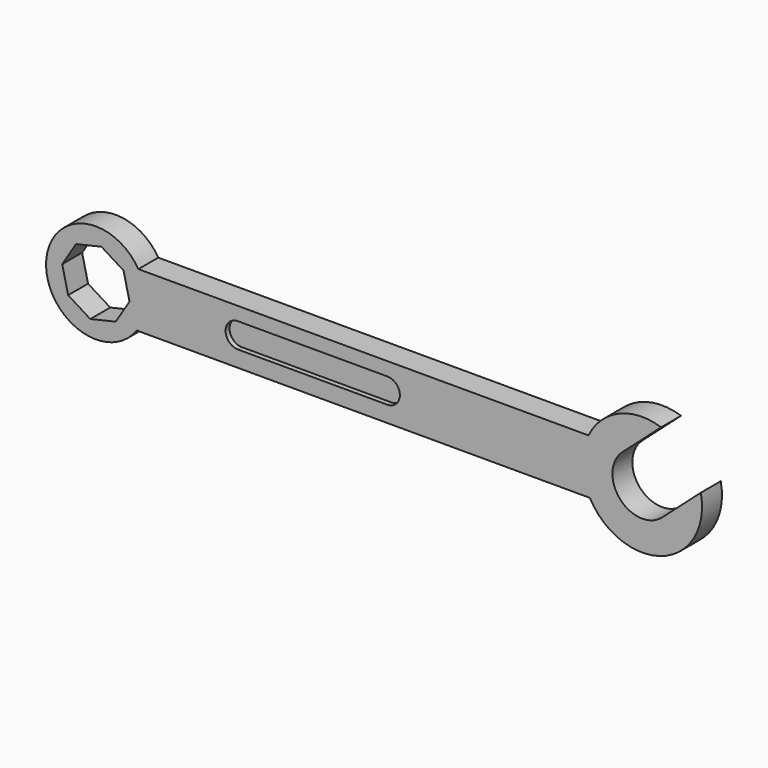
from build123d import *

# Parameters (mm, degrees)
F1_DEPTH = 3.175
F2_DEPTH = 1.905


with BuildPart() as f1:
    # F0 (on Front) → F1 (new body, symmetric)
    with BuildSketch(Plane.XZ):
        with BuildLine():
            ThreePointArc((-44.914296, -7.30021), (-43.197151, -3.828159), (-42.606453, 0))
            ThreePointArc((-42.606453, 0), (-43.079841, 3.435106), (-44.464713, 6.614127))
            ThreePointArc((-44.464713, 6.614127), (-67.999829, 0.410132), (-44.914296, -7.30021))
        make_face()
        Polygon((-48.240888, 5.064797), (-46.728991, -1.414757), (-50.241656, -7.065566), (-56.72121, -8.577462), (-62.372019, -5.064797), (-63.883915, 1.414757), (-60.37125, 7.065566), (-53.891696, 8.577462), align=None, mode=Mode.SUBTRACT)
        with BuildLine():
            ThreePointArc((-44.464713, 6.614127), (-43.079841, 3.435106), (-42.606453, 0))
            ThreePointArc((-42.606453, 0), (-43.197151, -3.828159), (-44.914296, -7.30021))
            Line((-44.914296, -7.30021), (70.688047, -7.30021))
            ThreePointArc((70.688047, -7.30021), (68.830689, -0.385594), (70.335882, 6.614127))
            Line((70.335882, 6.614127), (-44.464713, 6.614127))
        make_face()
        with BuildLine():
            ThreePointArc((-19.05, -3.175), (-22.225, 0), (-19.05, 3.175))
            Line((-19.05, 3.175), (19.05, 3.175))
            ThreePointArc((19.05, 3.175), (22.225, 0), (19.05, -3.175))
            Line((19.05, -3.175), (-19.05, -3.175))
        make_face(mode=Mode.SUBTRACT)
        with BuildLine():
            ThreePointArc((88.867829, 14.463686), (78.12184, 14.033062), (70.335882, 6.614127))
            ThreePointArc((70.335882, 6.614127), (68.830689, -0.385594), (70.688047, -7.30021))
            ThreePointArc((70.688047, -7.30021), (89.31002, -14.309293), (98.992739, 3.073172))
            Line((98.992739, 3.073172), (94.823522, -0.632802))
            Line((94.823522, -0.632802), (89.128265, -5.695257))
            ThreePointArc((89.128265, -5.695257), (78.370553, -5.062455), (79.003355, 5.695257))
            Line((79.003355, 5.695257), (84.698612, 10.757712))
            Line((84.698612, 10.757712), (88.867829, 14.463686))
        make_face()
    extrude(amount=F1_DEPTH, both=True)

    # F0 (on Front) → F2 (join, symmetric)
    with BuildSketch(Plane.XZ):
        with BuildLine():
            Line((19.05, 3.175), (-19.05, 3.175))
            ThreePointArc((-19.05, 3.175), (-22.225, 0), (-19.05, -3.175))
            Line((-19.05, -3.175), (19.05, -3.175))
            ThreePointArc((19.05, -3.175), (22.225, 0), (19.05, 3.175))
        make_face()
    extrude(amount=F2_DEPTH, both=True)


solid = f1.part
